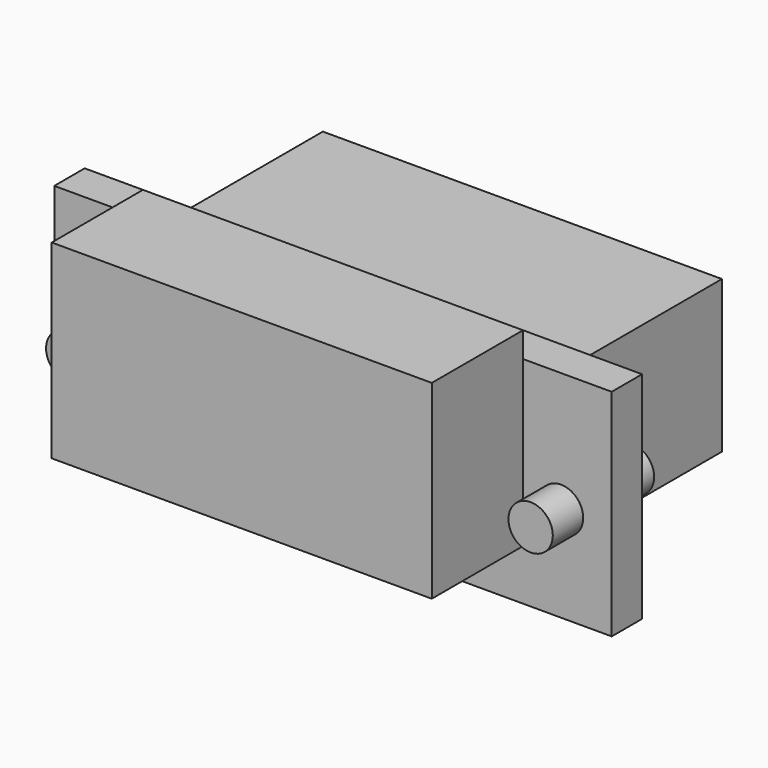
from build123d import *

# Parameters (mm, degrees)
BOX010_W          = 30
BOX010_H          = 9
BOX010_DEPTH      = 15
BOX011_W          = 31.5
BOX011_H          = 16
BOX011_DEPTH      = 12
CYLINDER_R        = 1.75
CYLINDER_DEPTH    = 10
CYLINDER001_R     = 1.75
CYLINDER001_DEPTH = 10
BOX009_W          = 44
BOX009_H          = 3
BOX009_DEPTH      = 17


with BuildPart() as cube010:
    # Box010 → Box010 (new body)
    with BuildSketch(Plane(origin=(43, -107, 23), x_dir=(1, 0, 0), z_dir=(0, 0, 1))):
        with Locations((15, 4.5)):
            Rectangle(BOX010_W, BOX010_H)
    extrude(amount=BOX010_DEPTH)


with BuildPart() as cube011:
    # Box011 → Box011 (new body)
    with BuildSketch(Plane(origin=(42, -95, 22), x_dir=(1, 0, 0), z_dir=(0, 0, 1))):
        with Locations((15.75, 8)):
            Rectangle(BOX011_W, BOX011_H)
    extrude(amount=BOX011_DEPTH)


with BuildPart() as cylinder:
    # Cylinder → Cylinder (new body)
    with BuildSketch(Plane(origin=(40, -91, 26.5), x_dir=(1, 0, 0), z_dir=(0, -1, 0))):
        Circle(CYLINDER_R)
    extrude(amount=CYLINDER_DEPTH)


with BuildPart() as fusion003:
    # Cylinder001 → Cylinder001 (new body)
    with BuildSketch(Plane(origin=(76.5, -91, 26.5), x_dir=(1, 0, 0), z_dir=(0, -1, 0))):
        Circle(CYLINDER001_R)
    extrude(amount=CYLINDER001_DEPTH)

    # Fusion003: union Cylinder
    add(cylinder.part)


with BuildPart() as fusion003_1:
    # Fusion003 placement: moved
    add(fusion003.part.moved(Location((-0.5, 0, 0))))


with BuildPart() as f_4p:
    # Box009 → Box009 (new body)
    with BuildSketch(Plane(origin=(36, -98, 19), x_dir=(1, 0, 0), z_dir=(0, 0, 1))):
        with Locations((22, 1.5)):
            Rectangle(BOX009_W, BOX009_H)
    extrude(amount=BOX009_DEPTH)

    # Fusion004: union Cube010, Cube011, Fusion003
    add(cube010.part)
    add(cube011.part)
    add(fusion003_1.part)


with BuildPart() as f_4p_1:
    # Fusion004 placement: moved
    add(f_4p.part.moved(Location((-5, 0, 0))))


solid = f_4p_1.part
